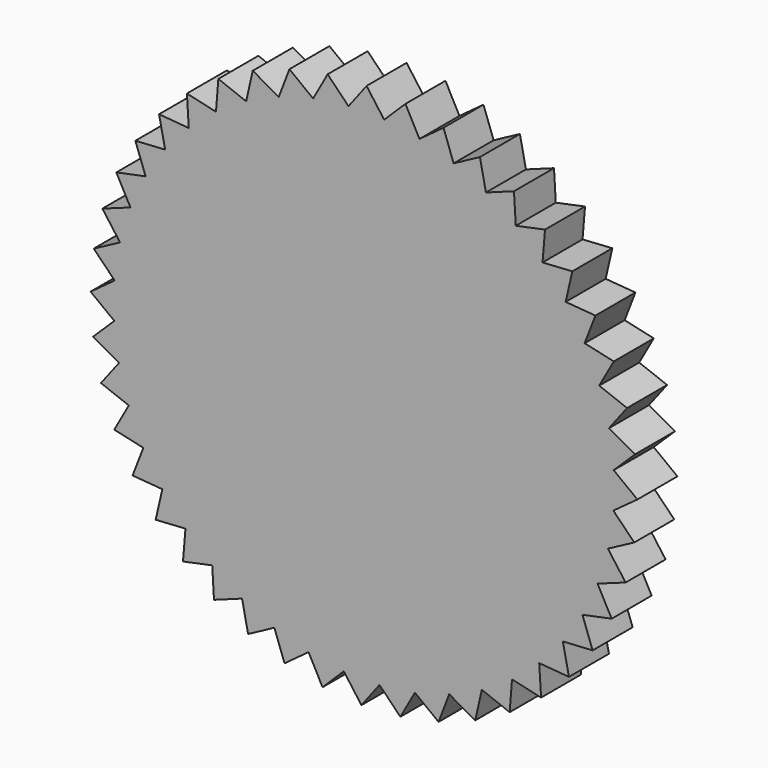
from build123d import *

# Parameters (mm, degrees)
F0_R     = 25.4
F1_DEPTH = 12.7
F2_DEPTH = 12.7
F3_DEPTH = 12.7


with BuildPart() as f1:
    # F0 (on Front) → F1 (new body)
    with BuildSketch(Plane.XZ):
        with BuildLine():
            Line((21.6409305502, -59.7314909213), (21.6052551354, -59.711497641))
            ThreePointArc((21.6052551354, -59.711497641), (17.3161577996, -61.0933767201), (12.9398582911, -62.1675966031))
            Line((12.9398582911, -62.1675966031), (12.9199796106, -62.2033360008))
            Line((12.9199796106, -62.2033360008), (18.9369886042, -66.8118523826))
            Line((18.9369886042, -66.8118523826), (21.6409305502, -59.7314909213))
        make_face()
        with BuildLine():
            ThreePointArc((63.2949514887, -5.0989328338), (63.4487171641, -2.5515270396), (63.5, 0))
            ThreePointArc((63.5, 0), (63.4699094208, 1.954635034), (63.3796662011, 3.9074175923))
            ThreePointArc((63.3796662011, 3.9074175923), (63.3780156902, 3.9340980122), (63.3763539479, 3.960777735))
            ThreePointArc((63.3763539479, 3.960777735), (62.9358804312, 8.4454102535), (62.1784690824, 12.8875126605))
            ThreePointArc((62.1784690824, 12.8875126605), (62.1730383517, 12.91368662), (62.1675966031, 12.9398582911))
            ThreePointArc((62.1675966031, 12.9398582911), (61.0933767201, 17.3161577996), (59.711497641, 21.6052551354))
            ThreePointArc((59.711497641, 21.6052551354), (59.7023972445, 21.6303898082), (59.693286268, 21.6555206478))
            ThreePointArc((59.693286268, 21.6555206478), (58.0071880377, 25.8343983085), (56.0289723015, 29.8831769201))
            ThreePointArc((56.0289723015, 29.8831769201), (56.016387497, 29.9067606368), (56.0037927657, 29.9303390535))
            ThreePointArc((56.0037927657, 29.9303390535), (53.7401402857, 33.8267249681), (51.2058586601, 37.5527633988))
            ThreePointArc((51.2058586601, 37.5527633988), (51.1900456379, 37.5743160628), (51.1742235442, 37.5958620681))
            ThreePointArc((51.1742235442, 37.5958620681), (48.3790982514, 41.1304370556), (45.3403414019, 44.4578839078))
            ThreePointArc((45.3403414019, 44.4578839078), (45.3216220696, 44.4769667691), (45.3028947057, 44.4960417485))
            ThreePointArc((45.3028947057, 44.4960417485), (42.0331972904, 47.596852055), (38.5518255434, 50.4579701065))
            ThreePointArc((38.5518255434, 50.4579701065), (38.5305809727, 50.474194693), (38.5093295738, 50.4904103348))
            ThreePointArc((38.5093295738, 50.4904103348), (34.8316216463, 53.0943324046), (30.9785056912, 55.4308775426))
            ThreePointArc((30.9785056912, 55.4308775426), (30.9551683602, 55.4439135685), (30.9318255434, 55.4569397691))
            ThreePointArc((30.9318255434, 55.4569397691), (26.9209746316, 57.5109652578), (22.7745527978, 59.2753721613))
            ThreePointArc((22.7745527978, 59.2753721613), (22.7495977872, 59.2849542508), (22.724638745, 59.2945258342))
            ThreePointArc((22.724638745, 59.2945258342), (18.4622942071, 60.7568407063), (14.1069756858, 61.9131911389))
            ThreePointArc((14.1069756858, 61.9131911389), (14.0809110077, 61.9191242283), (14.0548438343, 61.9250463447))
            ThreePointArc((14.0548438343, 61.9250463447), (9.6277747134, 62.7658820863), (5.15222123, 63.2906360878))
            ThreePointArc((5.15222123, 63.2906360878), (5.1255774861, 63.2927993964), (5.0989328338, 63.2949514887))
            ThreePointArc((5.0989328338, 63.2949514887), (0.5972614907, 63.4971911088), (-3.9074175923, 63.3796662011))
            ThreePointArc((-3.9074175923, 63.3796662011), (-3.9340980122, 63.3780156902), (-3.960777735, 63.3763539479))
            ThreePointArc((-3.960777735, 63.3763539479), (-8.4454102535, 62.9358804312), (-12.8875126605, 62.1784690824))
            ThreePointArc((-12.8875126605, 62.1784690824), (-12.91368662, 62.1730383517), (-12.9398582911, 62.1675966031))
            ThreePointArc((-12.9398582911, 62.1675966031), (-17.3161577996, 61.0933767201), (-21.6052551354, 59.711497641))
            ThreePointArc((-21.6052551354, 59.711497641), (-21.6303898082, 59.7023972445), (-21.6555206478, 59.693286268))
            ThreePointArc((-21.6555206478, 59.693286268), (-25.8343983085, 58.0071880377), (-29.8831769201, 56.0289723015))
            ThreePointArc((-29.8831769201, 56.0289723015), (-29.9067606368, 56.016387497), (-29.9303390535, 56.0037927657))
            ThreePointArc((-29.9303390535, 56.0037927657), (-33.8267249681, 53.7401402857), (-37.5527633988, 51.2058586601))
            ThreePointArc((-37.5527633988, 51.2058586601), (-37.5743160628, 51.1900456379), (-37.5958620681, 51.1742235442))
            ThreePointArc((-37.5958620681, 51.1742235442), (-41.1304370556, 48.3790982514), (-44.4578839078, 45.3403414019))
            ThreePointArc((-44.4578839078, 45.3403414019), (-44.4769667691, 45.3216220696), (-44.4960417485, 45.3028947057))
            ThreePointArc((-44.4960417485, 45.3028947057), (-47.596852055, 42.0331972904), (-50.4579701065, 38.5518255434))
            ThreePointArc((-50.4579701065, 38.5518255434), (-50.474194693, 38.5305809727), (-50.4904103348, 38.5093295738))
            ThreePointArc((-50.4904103348, 38.5093295738), (-53.0943324046, 34.8316216463), (-55.4308775426, 30.9785056912))
            ThreePointArc((-55.4308775426, 30.9785056912), (-55.4439135685, 30.9551683602), (-55.4569397691, 30.9318255434))
            ThreePointArc((-55.4569397691, 30.9318255434), (-57.5109652578, 26.9209746316), (-59.2753721613, 22.7745527978))
            ThreePointArc((-59.2753721613, 22.7745527978), (-59.2849542508, 22.7495977872), (-59.2945258342, 22.724638745))
            ThreePointArc((-59.2945258342, 22.724638745), (-60.7568407063, 18.4622942071), (-61.9131911389, 14.1069756858))
            ThreePointArc((-61.9131911389, 14.1069756858), (-61.9191242283, 14.0809110077), (-61.9250463447, 14.0548438343))
            ThreePointArc((-61.9250463447, 14.0548438343), (-62.7658820863, 9.6277747134), (-63.2906360878, 5.15222123))
            ThreePointArc((-63.2906360878, 5.15222123), (-63.2927993964, 5.1255774861), (-63.2949514887, 5.0989328338))
            ThreePointArc((-63.2949514887, 5.0989328338), (-63.4971911088, 0.5972614907), (-63.3796662011, -3.9074175923))
            ThreePointArc((-63.3796662011, -3.9074175923), (-63.3780156902, -3.9340980122), (-63.3763539479, -3.960777735))
            ThreePointArc((-63.3763539479, -3.960777735), (-62.9358804312, -8.4454102535), (-62.1784690824, -12.8875126605))
            ThreePointArc((-62.1784690824, -12.8875126605), (-62.1730383517, -12.91368662), (-62.1675966031, -12.9398582911))
            ThreePointArc((-62.1675966031, -12.9398582911), (-61.0933767201, -17.3161577996), (-59.711497641, -21.6052551354))
            ThreePointArc((-59.711497641, -21.6052551354), (-59.7023972445, -21.6303898082), (-59.693286268, -21.6555206478))
            ThreePointArc((-59.693286268, -21.6555206478), (-58.0071880377, -25.8343983085), (-56.0289723015, -29.8831769201))
            ThreePointArc((-56.0289723015, -29.8831769201), (-56.016387497, -29.9067606368), (-56.0037927657, -29.9303390535))
            ThreePointArc((-56.0037927657, -29.9303390535), (-53.7401402857, -33.8267249681), (-51.2058586601, -37.5527633988))
            ThreePointArc((-51.2058586601, -37.5527633988), (-51.1900456379, -37.5743160628), (-51.1742235442, -37.5958620681))
            ThreePointArc((-51.1742235442, -37.5958620681), (-48.3790982514, -41.1304370556), (-45.3403414019, -44.4578839078))
            ThreePointArc((-45.3403414019, -44.4578839078), (-45.3216220696, -44.4769667691), (-45.3028947057, -44.4960417485))
            ThreePointArc((-45.3028947057, -44.4960417485), (-42.0331972904, -47.596852055), (-38.5518255434, -50.4579701065))
            ThreePointArc((-38.5518255434, -50.4579701065), (-38.5305809727, -50.474194693), (-38.5093295738, -50.4904103348))
            ThreePointArc((-38.5093295738, -50.4904103348), (-34.8316216463, -53.0943324046), (-30.9785056912, -55.4308775426))
            ThreePointArc((-30.9785056912, -55.4308775426), (-30.9551683602, -55.4439135685), (-30.9318255434, -55.4569397691))
            ThreePointArc((-30.9318255434, -55.4569397691), (-26.9209746316, -57.5109652578), (-22.7745527978, -59.2753721613))
            ThreePointArc((-22.7745527978, -59.2753721613), (-22.7495977872, -59.2849542508), (-22.724638745, -59.2945258342))
            ThreePointArc((-22.724638745, -59.2945258342), (-18.4622942071, -60.7568407063), (-14.1069756858, -61.9131911389))
            ThreePointArc((-14.1069756858, -61.9131911389), (-14.0809110077, -61.9191242283), (-14.0548438343, -61.9250463447))
            ThreePointArc((-14.0548438343, -61.9250463447), (-9.6277747134, -62.7658820863), (-5.15222123, -63.2906360878))
            ThreePointArc((-5.15222123, -63.2906360878), (-5.1255774861, -63.2927993964), (-5.0989328338, -63.2949514887))
            ThreePointArc((-5.0989328338, -63.2949514887), (-0.5972614907, -63.4971911088), (3.9074175923, -63.3796662011))
            ThreePointArc((3.9074175923, -63.3796662011), (3.9340980122, -63.3780156902), (3.960777735, -63.3763539479))
            ThreePointArc((3.960777735, -63.3763539479), (8.4454102535, -62.9358804312), (12.8875126605, -62.1784690824))
            ThreePointArc((12.8875126605, -62.1784690824), (12.91368662, -62.1730383517), (12.9398582911, -62.1675966031))
            ThreePointArc((12.9398582911, -62.1675966031), (17.3161577996, -61.0933767201), (21.6052551354, -59.711497641))
            ThreePointArc((21.6052551354, -59.711497641), (21.6303898082, -59.7023972445), (21.6555206478, -59.693286268))
            ThreePointArc((21.6555206478, -59.693286268), (25.8343983085, -58.0071880377), (29.8831769201, -56.0289723015))
            ThreePointArc((29.8831769201, -56.0289723015), (29.9067606368, -56.016387497), (29.9303390535, -56.0037927657))
            ThreePointArc((29.9303390535, -56.0037927657), (33.8267249681, -53.7401402857), (37.5527633988, -51.2058586601))
            ThreePointArc((37.5527633988, -51.2058586601), (37.5743160628, -51.1900456379), (37.5958620681, -51.1742235442))
            ThreePointArc((37.5958620681, -51.1742235442), (41.1304370556, -48.3790982514), (44.4578839078, -45.3403414019))
            ThreePointArc((44.4578839078, -45.3403414019), (44.4769667691, -45.3216220696), (44.4960417485, -45.3028947057))
            ThreePointArc((44.4960417485, -45.3028947057), (47.596852055, -42.0331972904), (50.4579701065, -38.5518255434))
            ThreePointArc((50.4579701065, -38.5518255434), (50.474194693, -38.5305809727), (50.4904103348, -38.5093295738))
            ThreePointArc((50.4904103348, -38.5093295738), (53.0943324046, -34.8316216463), (55.4308775426, -30.9785056912))
            ThreePointArc((55.4308775426, -30.9785056912), (55.4439135685, -30.9551683602), (55.4569397691, -30.9318255434))
            ThreePointArc((55.4569397691, -30.9318255434), (57.5109652578, -26.9209746316), (59.2753721613, -22.7745527978))
            ThreePointArc((59.2753721613, -22.7745527978), (59.2849542508, -22.7495977872), (59.2945258342, -22.724638745))
            ThreePointArc((59.2945258342, -22.724638745), (60.7568407063, -18.4622942071), (61.9131911389, -14.1069756858))
            ThreePointArc((61.9131911389, -14.1069756858), (61.9191242283, -14.0809110077), (61.9250463447, -14.0548438343))
            ThreePointArc((61.9250463447, -14.0548438343), (62.7658820863, -9.6277747134), (63.2906360878, -5.15222123))
            ThreePointArc((63.2906360878, -5.15222123), (63.2927993964, -5.1255774861), (63.2949514887, -5.0989328338))
        make_face()
        Circle(F0_R, mode=Mode.SUBTRACT)
        with BuildLine():
            ThreePointArc((45.3403414019, 44.4578839078), (48.3790982514, 41.1304370556), (51.1742235442, 37.5958620681))
            Line((51.1742235442, 37.5958620681), (51.2149911461, 37.5926264666))
            Line((51.2149911461, 37.5926264666), (52.9074892289, 44.9803372562))
            Line((52.9074892289, 44.9803372562), (45.3437078263, 44.4986409154))
            Line((45.3437078263, 44.4986409154), (45.3403414019, 44.4578839078))
        make_face()
        with BuildLine():
            ThreePointArc((63.3796662011, 3.9074175923), (63.4699094208, 1.954635034), (63.5, 0))
            ThreePointArc((63.5, 0), (63.4487171641, -2.5515270396), (63.2949514887, -5.0989328338))
            Line((63.2949514887, -5.0989328338), (63.3236427181, -5.1280752399))
            Line((63.3236427181, -5.1280752399), (69.4406691336, -0.6531664919))
            Line((69.4406691336, -0.6531664919), (63.4089005388, 3.9360151442))
            Line((63.4089005388, 3.9360151442), (63.3796662011, 3.9074175923))
        make_face()
        with BuildLine():
            ThreePointArc((59.711497641, 21.6052551354), (61.0933767201, 17.3161577996), (62.1675966031, 12.9398582911))
            Line((62.1675966031, 12.9398582911), (62.2033360008, 12.9199796106))
            Line((62.2033360008, 12.9199796106), (66.8118523826, 18.9369886042))
            Line((66.8118523826, 18.9369886042), (59.7314909213, 21.6409305502))
            Line((59.7314909213, 21.6409305502), (59.711497641, 21.6052551354))
        make_face()
        with BuildLine():
            Line((-22.7606839324, -59.3138445027), (-22.7745527978, -59.2753721613))
            ThreePointArc((-22.7745527978, -59.2753721613), (-26.9209746316, -57.5109652578), (-30.9318255434, -55.4569397691))
            Line((-30.9318255434, -55.4569397691), (-30.9702531759, -55.4709320363))
            Line((-30.9702531759, -55.4709320363), (-29.4408376103, -62.894119256))
            Line((-29.4408376103, -62.894119256), (-22.7606839324, -59.3138445027))
        make_face()
        with BuildLine():
            Line((29.9213345512, -56.0436849381), (29.8831769201, -56.0289723015))
            ThreePointArc((29.8831769201, -56.0289723015), (25.8343983085, -58.0071880377), (21.6555206478, -59.693286268))
            Line((21.6555206478, -59.693286268), (21.6409305502, -59.7314909213))
            Line((21.6409305502, -59.7314909213), (28.2525553316, -63.4367895895))
            Line((28.2525553316, -63.4367895895), (29.9213345512, -56.0436849381))
        make_face()
        with BuildLine():
            Line((55.4709320363, -30.9702531759), (55.4308775426, -30.9785056912))
            ThreePointArc((55.4308775426, -30.9785056912), (53.0943324046, -34.8316216463), (50.4904103348, -38.5093295738))
            Line((50.4904103348, -38.5093295738), (50.4987913587, -38.5493573756))
            Line((50.4987913587, -38.5493573756), (58.0640797646, -38.0919387439))
            Line((58.0640797646, -38.0919387439), (55.4709320363, -30.9702531759))
        make_face()
        Circle(F0_R)
        with BuildLine():
            Line((61.949298142, -14.0877728004), (61.9131911389, -14.1069756858))
            ThreePointArc((61.9131911389, -14.1069756858), (60.7568407063, -18.4622942071), (59.2945258342, -22.724638745))
            Line((59.2945258342, -22.724638745), (59.3138445027, -22.7606839324))
            Line((59.3138445027, -22.7606839324), (66.4438158509, -20.1904059234))
            Line((66.4438158509, -20.1904059234), (61.949298142, -14.0877728004))
        make_face()
        with BuildLine():
            Line((63.3236427181, -5.1280752399), (63.2906360878, -5.15222123))
            ThreePointArc((63.2906360878, -5.15222123), (62.7658820863, -9.6277747134), (61.9250463447, -14.0548438343))
            Line((61.9250463447, -14.0548438343), (61.949298142, -14.0877728004))
            Line((61.949298142, -14.0877728004), (68.6409079633, -10.5289557962))
            Line((68.6409079633, -10.5289557962), (63.3236427181, -5.1280752399))
        make_face()
        with BuildLine():
            Line((-30.9702531759, -55.4709320363), (-30.9785056912, -55.4308775426))
            ThreePointArc((-30.9785056912, -55.4308775426), (-34.8316216463, -53.0943324046), (-38.5093295738, -50.4904103348))
            Line((-38.5093295738, -50.4904103348), (-38.5493573756, -50.4987913587))
            Line((-38.5493573756, -50.4987913587), (-38.0919387439, -58.0640797646))
            Line((-38.0919387439, -58.0640797646), (-30.9702531759, -55.4709320363))
        make_face()
        with BuildLine():
            Line((-14.0877728004, -61.949298142), (-14.1069756858, -61.9131911389))
            ThreePointArc((-14.1069756858, -61.9131911389), (-18.4622942071, -60.7568407063), (-22.724638745, -59.2945258342))
            Line((-22.724638745, -59.2945258342), (-22.7606839324, -59.3138445027))
            Line((-22.7606839324, -59.3138445027), (-20.1904059234, -66.4438158509))
            Line((-20.1904059234, -66.4438158509), (-14.0877728004, -61.949298142))
        make_face()
        with BuildLine():
            Line((50.4987913587, -38.5493573756), (50.4579701065, -38.5518255434))
            ThreePointArc((50.4579701065, -38.5518255434), (47.596852055, -42.0331972904), (44.4960417485, -45.3028947057))
            Line((44.4960417485, -45.3028947057), (44.4986409154, -45.3437078263))
            Line((44.4986409154, -45.3437078263), (52.0520230523, -45.9675978527))
            Line((52.0520230523, -45.9675978527), (50.4987913587, -38.5493573756))
        make_face()
        with BuildLine():
            ThreePointArc((51.2058586601, 37.5527633988), (53.7401402857, 33.8267249681), (56.0037927657, 29.9303390535))
            Line((56.0037927657, 29.9303390535), (56.0436849381, 29.9213345512))
            Line((56.0436849381, 29.9213345512), (58.7703366969, 36.9929815062))
            Line((58.7703366969, 36.9929815062), (51.2149911461, 37.5926264666))
            Line((51.2149911461, 37.5926264666), (51.2058586601, 37.5527633988))
        make_face()
        with BuildLine():
            ThreePointArc((62.1784690824, 12.8875126605), (62.9358804312, 8.4454102535), (63.3763539479, 3.960777735))
            Line((63.3763539479, 3.960777735), (63.4089005388, 3.9360151442))
            Line((63.4089005388, 3.9360151442), (68.8268185306, 9.2359193985))
            Line((68.8268185306, 9.2359193985), (62.2033360008, 12.9199796106))
            Line((62.2033360008, 12.9199796106), (62.1784690824, 12.8875126605))
        make_face()
        with BuildLine():
            Line((44.4986409154, -45.3437078263), (44.4578839078, -45.3403414019))
            ThreePointArc((44.4578839078, -45.3403414019), (41.1304370556, -48.3790982514), (37.5958620681, -51.1742235442))
            Line((37.5958620681, -51.1742235442), (37.5926264666, -51.2149911461))
            Line((37.5926264666, -51.2149911461), (44.9803372562, -52.9074892289))
            Line((44.9803372562, -52.9074892289), (44.4986409154, -45.3437078263))
        make_face()
        with BuildLine():
            Line((37.5926264666, -51.2149911461), (37.5527633988, -51.2058586601))
            ThreePointArc((37.5527633988, -51.2058586601), (33.8267249681, -53.7401402857), (29.9303390535, -56.0037927657))
            Line((29.9303390535, -56.0037927657), (29.9213345512, -56.0436849381))
            Line((29.9213345512, -56.0436849381), (36.9929815062, -58.7703366969))
            Line((36.9929815062, -58.7703366969), (37.5926264666, -51.2149911461))
        make_face()
        with BuildLine():
            Line((59.3138445027, -22.7606839324), (59.2753721613, -22.7745527978))
            ThreePointArc((59.2753721613, -22.7745527978), (57.5109652578, -26.9209746316), (55.4569397691, -30.9318255434))
            Line((55.4569397691, -30.9318255434), (55.4709320363, -30.9702531759))
            Line((55.4709320363, -30.9702531759), (62.894119256, -29.4408376103))
            Line((62.894119256, -29.4408376103), (59.3138445027, -22.7606839324))
        make_face()
        with BuildLine():
            ThreePointArc((56.0289723015, 29.8831769201), (58.0071880377, 25.8343983085), (59.693286268, 21.6555206478))
            Line((59.693286268, 21.6555206478), (59.7314909213, 21.6409305502))
            Line((59.7314909213, 21.6409305502), (63.4367895895, 28.2525553316))
            Line((63.4367895895, 28.2525553316), (56.0436849381, 29.9213345512))
            Line((56.0436849381, 29.9213345512), (56.0289723015, 29.8831769201))
        make_face()
        with BuildLine():
            Line((12.9199796106, -62.2033360008), (12.8875126605, -62.1784690824))
            ThreePointArc((12.8875126605, -62.1784690824), (8.4454102535, -62.9358804312), (3.960777735, -63.3763539479))
            Line((3.960777735, -63.3763539479), (3.9360151442, -63.4089005388))
            Line((3.9360151442, -63.4089005388), (9.2359193985, -68.8268185306))
            Line((9.2359193985, -68.8268185306), (12.9199796106, -62.2033360008))
        make_face()
        with BuildLine():
            Line((-5.1280752399, -63.3236427181), (-5.15222123, -63.2906360878))
            ThreePointArc((-5.15222123, -63.2906360878), (-9.6277747134, -62.7658820863), (-14.0548438343, -61.9250463447))
            Line((-14.0548438343, -61.9250463447), (-14.0877728004, -61.949298142))
            Line((-14.0877728004, -61.949298142), (-10.5289557962, -68.6409079633))
            Line((-10.5289557962, -68.6409079633), (-5.1280752399, -63.3236427181))
        make_face()
        with BuildLine():
            Line((63.3236427181, -5.1280752399), (63.2949514887, -5.0989328338))
            ThreePointArc((63.2949514887, -5.0989328338), (63.2927993964, -5.1255774861), (63.2906360878, -5.15222123))
            Line((63.2906360878, -5.15222123), (63.3236427181, -5.1280752399))
        make_face()
        with BuildLine():
            Line((61.949298142, -14.0877728004), (61.9250463447, -14.0548438343))
            ThreePointArc((61.9250463447, -14.0548438343), (61.9191242283, -14.0809110077), (61.9131911389, -14.1069756858))
            Line((61.9131911389, -14.1069756858), (61.949298142, -14.0877728004))
        make_face()
        with BuildLine():
            Line((29.9213345512, -56.0436849381), (29.9303390535, -56.0037927657))
            ThreePointArc((29.9303390535, -56.0037927657), (29.9067606368, -56.016387497), (29.8831769201, -56.0289723015))
            Line((29.8831769201, -56.0289723015), (29.9213345512, -56.0436849381))
        make_face()
        with BuildLine():
            Line((-22.7606839324, -59.3138445027), (-22.724638745, -59.2945258342))
            ThreePointArc((-22.724638745, -59.2945258342), (-22.7495977872, -59.2849542508), (-22.7745527978, -59.2753721613))
            Line((-22.7745527978, -59.2753721613), (-22.7606839324, -59.3138445027))
        make_face()
        with BuildLine():
            ThreePointArc((51.1742235442, 37.5958620681), (51.1900456379, 37.5743160628), (51.2058586601, 37.5527633988))
            Line((51.2058586601, 37.5527633988), (51.2149911461, 37.5926264666))
            Line((51.2149911461, 37.5926264666), (51.1742235442, 37.5958620681))
        make_face()
        with BuildLine():
            ThreePointArc((63.3763539479, 3.960777735), (63.3780156902, 3.9340980122), (63.3796662011, 3.9074175923))
            Line((63.3796662011, 3.9074175923), (63.4089005388, 3.9360151442))
            Line((63.4089005388, 3.9360151442), (63.3763539479, 3.960777735))
        make_face()
        with BuildLine():
            Line((59.3138445027, -22.7606839324), (59.2945258342, -22.724638745))
            ThreePointArc((59.2945258342, -22.724638745), (59.2849542508, -22.7495977872), (59.2753721613, -22.7745527978))
            Line((59.2753721613, -22.7745527978), (59.3138445027, -22.7606839324))
        make_face()
        with BuildLine():
            ThreePointArc((56.0037927657, 29.9303390535), (56.016387497, 29.9067606368), (56.0289723015, 29.8831769201))
            Line((56.0289723015, 29.8831769201), (56.0436849381, 29.9213345512))
            Line((56.0436849381, 29.9213345512), (56.0037927657, 29.9303390535))
        make_face()
        with BuildLine():
            Line((21.6409305502, -59.7314909213), (21.6555206478, -59.693286268))
            ThreePointArc((21.6555206478, -59.693286268), (21.6303898082, -59.7023972445), (21.6052551354, -59.711497641))
            Line((21.6052551354, -59.711497641), (21.6409305502, -59.7314909213))
        make_face()
        with BuildLine():
            Line((50.4987913587, -38.5493573756), (50.4904103348, -38.5093295738))
            ThreePointArc((50.4904103348, -38.5093295738), (50.474194693, -38.5305809727), (50.4579701065, -38.5518255434))
            Line((50.4579701065, -38.5518255434), (50.4987913587, -38.5493573756))
        make_face()
        with BuildLine():
            ThreePointArc((59.693286268, 21.6555206478), (59.7023972445, 21.6303898082), (59.711497641, 21.6052551354))
            Line((59.711497641, 21.6052551354), (59.7314909213, 21.6409305502))
            Line((59.7314909213, 21.6409305502), (59.693286268, 21.6555206478))
        make_face()
        with BuildLine():
            Line((55.4709320363, -30.9702531759), (55.4569397691, -30.9318255434))
            ThreePointArc((55.4569397691, -30.9318255434), (55.4439135685, -30.9551683602), (55.4308775426, -30.9785056912))
            Line((55.4308775426, -30.9785056912), (55.4709320363, -30.9702531759))
        make_face()
        with BuildLine():
            Line((44.4986409154, -45.3437078263), (44.4960417485, -45.3028947057))
            ThreePointArc((44.4960417485, -45.3028947057), (44.4769667691, -45.3216220696), (44.4578839078, -45.3403414019))
            Line((44.4578839078, -45.3403414019), (44.4986409154, -45.3437078263))
        make_face()
        with BuildLine():
            Line((37.5926264666, -51.2149911461), (37.5958620681, -51.1742235442))
            ThreePointArc((37.5958620681, -51.1742235442), (37.5743160628, -51.1900456379), (37.5527633988, -51.2058586601))
            Line((37.5527633988, -51.2058586601), (37.5926264666, -51.2149911461))
        make_face()
        with BuildLine():
            Line((-30.9702531759, -55.4709320363), (-30.9318255434, -55.4569397691))
            ThreePointArc((-30.9318255434, -55.4569397691), (-30.9551683602, -55.4439135685), (-30.9785056912, -55.4308775426))
            Line((-30.9785056912, -55.4308775426), (-30.9702531759, -55.4709320363))
        make_face()
        with BuildLine():
            ThreePointArc((62.1675966031, 12.9398582911), (62.1730383517, 12.91368662), (62.1784690824, 12.8875126605))
            Line((62.1784690824, 12.8875126605), (62.2033360008, 12.9199796106))
            Line((62.2033360008, 12.9199796106), (62.1675966031, 12.9398582911))
        make_face()
        with BuildLine():
            Line((-14.0877728004, -61.949298142), (-14.0548438343, -61.9250463447))
            ThreePointArc((-14.0548438343, -61.9250463447), (-14.0809110077, -61.9191242283), (-14.1069756858, -61.9131911389))
            Line((-14.1069756858, -61.9131911389), (-14.0877728004, -61.949298142))
        make_face()
        with BuildLine():
            Line((12.9199796106, -62.2033360008), (12.9398582911, -62.1675966031))
            ThreePointArc((12.9398582911, -62.1675966031), (12.91368662, -62.1730383517), (12.8875126605, -62.1784690824))
            Line((12.8875126605, -62.1784690824), (12.9199796106, -62.2033360008))
        make_face()
        with BuildLine():
            ThreePointArc((30.9785056912, 55.4308775426), (34.8316216463, 53.0943324046), (38.5093295738, 50.4904103348))
            Line((38.5093295738, 50.4904103348), (38.5493573756, 50.4987913587))
            Line((38.5493573756, 50.4987913587), (38.0919387439, 58.0640797646))
            Line((38.0919387439, 58.0640797646), (30.9702531759, 55.4709320363))
            Line((30.9702531759, 55.4709320363), (30.9785056912, 55.4308775426))
        make_face()
        with BuildLine():
            Line((-62.2033360008, -12.9199796106), (-62.1784690824, -12.8875126605))
            ThreePointArc((-62.1784690824, -12.8875126605), (-62.9358804312, -8.4454102535), (-63.3763539479, -3.960777735))
            Line((-63.3763539479, -3.960777735), (-63.4089005388, -3.9360151442))
            Line((-63.4089005388, -3.9360151442), (-68.8268185306, -9.2359193985))
            Line((-68.8268185306, -9.2359193985), (-62.2033360008, -12.9199796106))
        make_face()
        with BuildLine():
            ThreePointArc((-55.4308775426, 30.9785056912), (-53.0943324046, 34.8316216463), (-50.4904103348, 38.5093295738))
            Line((-50.4904103348, 38.5093295738), (-50.4987913587, 38.5493573756))
            Line((-50.4987913587, 38.5493573756), (-58.0640797646, 38.0919387439))
            Line((-58.0640797646, 38.0919387439), (-55.4709320363, 30.9702531759))
            Line((-55.4709320363, 30.9702531759), (-55.4308775426, 30.9785056912))
        make_face()
        with BuildLine():
            ThreePointArc((-29.8831769201, 56.0289723015), (-25.8343983085, 58.0071880377), (-21.6555206478, 59.693286268))
            Line((-21.6555206478, 59.693286268), (-21.6409305502, 59.7314909213))
            Line((-21.6409305502, 59.7314909213), (-28.2525553316, 63.4367895895))
            Line((-28.2525553316, 63.4367895895), (-29.9213345512, 56.0436849381))
            Line((-29.9213345512, 56.0436849381), (-29.8831769201, 56.0289723015))
        make_face()
        with BuildLine():
            Line((-51.2149911461, -37.5926264666), (-51.2058586601, -37.5527633988))
            ThreePointArc((-51.2058586601, -37.5527633988), (-53.7401402857, -33.8267249681), (-56.0037927657, -29.9303390535))
            Line((-56.0037927657, -29.9303390535), (-56.0436849381, -29.9213345512))
            Line((-56.0436849381, -29.9213345512), (-58.7703366969, -36.9929815062))
            Line((-58.7703366969, -36.9929815062), (-51.2149911461, -37.5926264666))
        make_face()
        with BuildLine():
            ThreePointArc((22.7745527978, 59.2753721613), (26.9209746316, 57.5109652578), (30.9318255434, 55.4569397691))
            Line((30.9318255434, 55.4569397691), (30.9702531759, 55.4709320363))
            Line((30.9702531759, 55.4709320363), (29.4408376103, 62.894119256))
            Line((29.4408376103, 62.894119256), (22.7606839324, 59.3138445027))
            Line((22.7606839324, 59.3138445027), (22.7745527978, 59.2753721613))
        make_face()
        with BuildLine():
            ThreePointArc((5.15222123, 63.2906360878), (9.6277747134, 62.7658820863), (14.0548438343, 61.9250463447))
            Line((14.0548438343, 61.9250463447), (14.0877728004, 61.949298142))
            Line((14.0877728004, 61.949298142), (10.5289557962, 68.6409079633))
            Line((10.5289557962, 68.6409079633), (5.1280752399, 63.3236427181))
            Line((5.1280752399, 63.3236427181), (5.15222123, 63.2906360878))
        make_face()
        with BuildLine():
            Line((-56.0436849381, -29.9213345512), (-56.0289723015, -29.8831769201))
            ThreePointArc((-56.0289723015, -29.8831769201), (-58.0071880377, -25.8343983085), (-59.693286268, -21.6555206478))
            Line((-59.693286268, -21.6555206478), (-59.7314909213, -21.6409305502))
            Line((-59.7314909213, -21.6409305502), (-63.4367895895, -28.2525553316))
            Line((-63.4367895895, -28.2525553316), (-56.0436849381, -29.9213345512))
        make_face()
        with BuildLine():
            ThreePointArc((-63.3796662011, -3.9074175923), (-63.4971911088, 0.5972614907), (-63.2949514887, 5.0989328338))
            Line((-63.2949514887, 5.0989328338), (-63.3236427181, 5.1280752399))
            Line((-63.3236427181, 5.1280752399), (-69.4406691336, 0.6531664919))
            Line((-69.4406691336, 0.6531664919), (-63.4089005388, -3.9360151442))
            Line((-63.4089005388, -3.9360151442), (-63.3796662011, -3.9074175923))
        make_face()
        with BuildLine():
            ThreePointArc((-37.5527633988, 51.2058586601), (-33.8267249681, 53.7401402857), (-29.9303390535, 56.0037927657))
            Line((-29.9303390535, 56.0037927657), (-29.9213345512, 56.0436849381))
            Line((-29.9213345512, 56.0436849381), (-36.9929815062, 58.7703366969))
            Line((-36.9929815062, 58.7703366969), (-37.5926264666, 51.2149911461))
            Line((-37.5926264666, 51.2149911461), (-37.5527633988, 51.2058586601))
        make_face()
        with BuildLine():
            ThreePointArc((-61.9131911389, 14.1069756858), (-60.7568407063, 18.4622942071), (-59.2945258342, 22.724638745))
            Line((-59.2945258342, 22.724638745), (-59.3138445027, 22.7606839324))
            Line((-59.3138445027, 22.7606839324), (-66.4438158509, 20.1904059234))
            Line((-66.4438158509, 20.1904059234), (-61.949298142, 14.0877728004))
            Line((-61.949298142, 14.0877728004), (-61.9131911389, 14.1069756858))
        make_face()
        with BuildLine():
            ThreePointArc((-12.8875126605, 62.1784690824), (-8.4454102535, 62.9358804312), (-3.960777735, 63.3763539479))
            Line((-3.960777735, 63.3763539479), (-3.9360151442, 63.4089005388))
            Line((-3.9360151442, 63.4089005388), (-9.2359193985, 68.8268185306))
            Line((-9.2359193985, 68.8268185306), (-12.9199796106, 62.2033360008))
            Line((-12.9199796106, 62.2033360008), (-12.8875126605, 62.1784690824))
        make_face()
        with BuildLine():
            Line((-38.5493573756, -50.4987913587), (-38.5518255434, -50.4579701065))
            ThreePointArc((-38.5518255434, -50.4579701065), (-42.0331972904, -47.596852055), (-45.3028947057, -44.4960417485))
            Line((-45.3028947057, -44.4960417485), (-45.3437078263, -44.4986409154))
            Line((-45.3437078263, -44.4986409154), (-45.9675978527, -52.0520230523))
            Line((-45.9675978527, -52.0520230523), (-38.5493573756, -50.4987913587))
        make_face()
        with BuildLine():
            ThreePointArc((-44.4578839078, 45.3403414019), (-41.1304370556, 48.3790982514), (-37.5958620681, 51.1742235442))
            Line((-37.5958620681, 51.1742235442), (-37.5926264666, 51.2149911461))
            Line((-37.5926264666, 51.2149911461), (-44.9803372562, 52.9074892289))
            Line((-44.9803372562, 52.9074892289), (-44.4986409154, 45.3437078263))
            Line((-44.4986409154, 45.3437078263), (-44.4578839078, 45.3403414019))
        make_face()
        with BuildLine():
            ThreePointArc((14.1069756858, 61.9131911389), (18.4622942071, 60.7568407063), (22.724638745, 59.2945258342))
            Line((22.724638745, 59.2945258342), (22.7606839324, 59.3138445027))
            Line((22.7606839324, 59.3138445027), (20.1904059234, 66.4438158509))
            Line((20.1904059234, 66.4438158509), (14.0877728004, 61.949298142))
            Line((14.0877728004, 61.949298142), (14.1069756858, 61.9131911389))
        make_face()
        with BuildLine():
            ThreePointArc((-21.6052551354, 59.711497641), (-17.3161577996, 61.0933767201), (-12.9398582911, 62.1675966031))
            Line((-12.9398582911, 62.1675966031), (-12.9199796106, 62.2033360008))
            Line((-12.9199796106, 62.2033360008), (-18.9369886042, 66.8118523826))
            Line((-18.9369886042, 66.8118523826), (-21.6409305502, 59.7314909213))
            Line((-21.6409305502, 59.7314909213), (-21.6052551354, 59.711497641))
        make_face()
        with BuildLine():
            ThreePointArc((-50.4579701065, 38.5518255434), (-47.596852055, 42.0331972904), (-44.4960417485, 45.3028947057))
            Line((-44.4960417485, 45.3028947057), (-44.4986409154, 45.3437078263))
            Line((-44.4986409154, 45.3437078263), (-52.0520230523, 45.9675978527))
            Line((-52.0520230523, 45.9675978527), (-50.4987913587, 38.5493573756))
            Line((-50.4987913587, 38.5493573756), (-50.4579701065, 38.5518255434))
        make_face()
        with BuildLine():
            ThreePointArc((-63.2906360878, 5.15222123), (-62.7658820863, 9.6277747134), (-61.9250463447, 14.0548438343))
            Line((-61.9250463447, 14.0548438343), (-61.949298142, 14.0877728004))
            Line((-61.949298142, 14.0877728004), (-68.6409079633, 10.5289557962))
            Line((-68.6409079633, 10.5289557962), (-63.3236427181, 5.1280752399))
            Line((-63.3236427181, 5.1280752399), (-63.2906360878, 5.15222123))
        make_face()
        with BuildLine():
            ThreePointArc((-3.9074175923, 63.3796662011), (0.5972614907, 63.4971911088), (5.0989328338, 63.2949514887))
            Line((5.0989328338, 63.2949514887), (5.1280752399, 63.3236427181))
            Line((5.1280752399, 63.3236427181), (0.6531664919, 69.4406691336))
            Line((0.6531664919, 69.4406691336), (-3.9360151442, 63.4089005388))
            Line((-3.9360151442, 63.4089005388), (-3.9074175923, 63.3796662011))
        make_face()
        with BuildLine():
            ThreePointArc((38.5518255434, 50.4579701065), (42.0331972904, 47.596852055), (45.3028947057, 44.4960417485))
            Line((45.3028947057, 44.4960417485), (45.3437078263, 44.4986409154))
            Line((45.3437078263, 44.4986409154), (45.9675978527, 52.0520230523))
            Line((45.9675978527, 52.0520230523), (38.5493573756, 50.4987913587))
            Line((38.5493573756, 50.4987913587), (38.5518255434, 50.4579701065))
        make_face()
        with BuildLine():
            ThreePointArc((-59.2753721613, 22.7745527978), (-57.5109652578, 26.9209746316), (-55.4569397691, 30.9318255434))
            Line((-55.4569397691, 30.9318255434), (-55.4709320363, 30.9702531759))
            Line((-55.4709320363, 30.9702531759), (-62.894119256, 29.4408376103))
            Line((-62.894119256, 29.4408376103), (-59.3138445027, 22.7606839324))
            Line((-59.3138445027, 22.7606839324), (-59.2753721613, 22.7745527978))
        make_face()
        with BuildLine():
            Line((3.9360151442, -63.4089005388), (3.9074175923, -63.3796662011))
            ThreePointArc((3.9074175923, -63.3796662011), (-0.5972614907, -63.4971911088), (-5.0989328338, -63.2949514887))
            Line((-5.0989328338, -63.2949514887), (-5.1280752399, -63.3236427181))
            Line((-5.1280752399, -63.3236427181), (-0.6531664919, -69.4406691336))
            Line((-0.6531664919, -69.4406691336), (3.9360151442, -63.4089005388))
        make_face()
        with BuildLine():
            Line((-59.7314909213, -21.6409305502), (-59.711497641, -21.6052551354))
            ThreePointArc((-59.711497641, -21.6052551354), (-61.0933767201, -17.3161577996), (-62.1675966031, -12.9398582911))
            Line((-62.1675966031, -12.9398582911), (-62.2033360008, -12.9199796106))
            Line((-62.2033360008, -12.9199796106), (-66.8118523826, -18.9369886042))
            Line((-66.8118523826, -18.9369886042), (-59.7314909213, -21.6409305502))
        make_face()
        with BuildLine():
            Line((-45.3437078263, -44.4986409154), (-45.3403414019, -44.4578839078))
            ThreePointArc((-45.3403414019, -44.4578839078), (-48.3790982514, -41.1304370556), (-51.1742235442, -37.5958620681))
            Line((-51.1742235442, -37.5958620681), (-51.2149911461, -37.5926264666))
            Line((-51.2149911461, -37.5926264666), (-52.9074892289, -44.9803372562))
            Line((-52.9074892289, -44.9803372562), (-45.3437078263, -44.4986409154))
        make_face()
        with BuildLine():
            ThreePointArc((-12.9398582911, 62.1675966031), (-12.91368662, 62.1730383517), (-12.8875126605, 62.1784690824))
            Line((-12.8875126605, 62.1784690824), (-12.9199796106, 62.2033360008))
            Line((-12.9199796106, 62.2033360008), (-12.9398582911, 62.1675966031))
        make_face()
        with BuildLine():
            Line((-38.5493573756, -50.4987913587), (-38.5093295738, -50.4904103348))
            ThreePointArc((-38.5093295738, -50.4904103348), (-38.5305809727, -50.474194693), (-38.5518255434, -50.4579701065))
            Line((-38.5518255434, -50.4579701065), (-38.5493573756, -50.4987913587))
        make_face()
        with BuildLine():
            Line((-62.2033360008, -12.9199796106), (-62.1675966031, -12.9398582911))
            ThreePointArc((-62.1675966031, -12.9398582911), (-62.1730383517, -12.91368662), (-62.1784690824, -12.8875126605))
            Line((-62.1784690824, -12.8875126605), (-62.2033360008, -12.9199796106))
        make_face()
        with BuildLine():
            ThreePointArc((5.0989328338, 63.2949514887), (5.1255774861, 63.2927993964), (5.15222123, 63.2906360878))
            Line((5.15222123, 63.2906360878), (5.1280752399, 63.3236427181))
            Line((5.1280752399, 63.3236427181), (5.0989328338, 63.2949514887))
        make_face()
        with BuildLine():
            ThreePointArc((30.9318255434, 55.4569397691), (30.9551683602, 55.4439135685), (30.9785056912, 55.4308775426))
            Line((30.9785056912, 55.4308775426), (30.9702531759, 55.4709320363))
            Line((30.9702531759, 55.4709320363), (30.9318255434, 55.4569397691))
        make_face()
        with BuildLine():
            ThreePointArc((-44.4960417485, 45.3028947057), (-44.4769667691, 45.3216220696), (-44.4578839078, 45.3403414019))
            Line((-44.4578839078, 45.3403414019), (-44.4986409154, 45.3437078263))
            Line((-44.4986409154, 45.3437078263), (-44.4960417485, 45.3028947057))
        make_face()
        with BuildLine():
            ThreePointArc((-59.2945258342, 22.724638745), (-59.2849542508, 22.7495977872), (-59.2753721613, 22.7745527978))
            Line((-59.2753721613, 22.7745527978), (-59.3138445027, 22.7606839324))
            Line((-59.3138445027, 22.7606839324), (-59.2945258342, 22.724638745))
        make_face()
        with BuildLine():
            Line((-45.3437078263, -44.4986409154), (-45.3028947057, -44.4960417485))
            ThreePointArc((-45.3028947057, -44.4960417485), (-45.3216220696, -44.4769667691), (-45.3403414019, -44.4578839078))
            Line((-45.3403414019, -44.4578839078), (-45.3437078263, -44.4986409154))
        make_face()
        with BuildLine():
            ThreePointArc((-61.9250463447, 14.0548438343), (-61.9191242283, 14.0809110077), (-61.9131911389, 14.1069756858))
            Line((-61.9131911389, 14.1069756858), (-61.949298142, 14.0877728004))
            Line((-61.949298142, 14.0877728004), (-61.9250463447, 14.0548438343))
        make_face()
        with BuildLine():
            Line((-56.0436849381, -29.9213345512), (-56.0037927657, -29.9303390535))
            ThreePointArc((-56.0037927657, -29.9303390535), (-56.016387497, -29.9067606368), (-56.0289723015, -29.8831769201))
            Line((-56.0289723015, -29.8831769201), (-56.0436849381, -29.9213345512))
        make_face()
        with BuildLine():
            ThreePointArc((-63.2949514887, 5.0989328338), (-63.2927993964, 5.1255774861), (-63.2906360878, 5.15222123))
            Line((-63.2906360878, 5.15222123), (-63.3236427181, 5.1280752399))
            Line((-63.3236427181, 5.1280752399), (-63.2949514887, 5.0989328338))
        make_face()
        with BuildLine():
            Line((-5.1280752399, -63.3236427181), (-5.0989328338, -63.2949514887))
            ThreePointArc((-5.0989328338, -63.2949514887), (-5.1255774861, -63.2927993964), (-5.15222123, -63.2906360878))
            Line((-5.15222123, -63.2906360878), (-5.1280752399, -63.3236427181))
        make_face()
        with BuildLine():
            ThreePointArc((14.0548438343, 61.9250463447), (14.0809110077, 61.9191242283), (14.1069756858, 61.9131911389))
            Line((14.1069756858, 61.9131911389), (14.0877728004, 61.949298142))
            Line((14.0877728004, 61.949298142), (14.0548438343, 61.9250463447))
        make_face()
        with BuildLine():
            Line((-59.7314909213, -21.6409305502), (-59.693286268, -21.6555206478))
            ThreePointArc((-59.693286268, -21.6555206478), (-59.7023972445, -21.6303898082), (-59.711497641, -21.6052551354))
            Line((-59.711497641, -21.6052551354), (-59.7314909213, -21.6409305502))
        make_face()
        with BuildLine():
            ThreePointArc((-37.5958620681, 51.1742235442), (-37.5743160628, 51.1900456379), (-37.5527633988, 51.2058586601))
            Line((-37.5527633988, 51.2058586601), (-37.5926264666, 51.2149911461))
            Line((-37.5926264666, 51.2149911461), (-37.5958620681, 51.1742235442))
        make_face()
        with BuildLine():
            ThreePointArc((38.5093295738, 50.4904103348), (38.5305809727, 50.474194693), (38.5518255434, 50.4579701065))
            Line((38.5518255434, 50.4579701065), (38.5493573756, 50.4987913587))
            Line((38.5493573756, 50.4987913587), (38.5093295738, 50.4904103348))
        make_face()
        with BuildLine():
            ThreePointArc((-3.960777735, 63.3763539479), (-3.9340980122, 63.3780156902), (-3.9074175923, 63.3796662011))
            Line((-3.9074175923, 63.3796662011), (-3.9360151442, 63.4089005388))
            Line((-3.9360151442, 63.4089005388), (-3.960777735, 63.3763539479))
        make_face()
        with BuildLine():
            ThreePointArc((-29.9303390535, 56.0037927657), (-29.9067606368, 56.016387497), (-29.8831769201, 56.0289723015))
            Line((-29.8831769201, 56.0289723015), (-29.9213345512, 56.0436849381))
            Line((-29.9213345512, 56.0436849381), (-29.9303390535, 56.0037927657))
        make_face()
        with BuildLine():
            ThreePointArc((-50.4904103348, 38.5093295738), (-50.474194693, 38.5305809727), (-50.4579701065, 38.5518255434))
            Line((-50.4579701065, 38.5518255434), (-50.4987913587, 38.5493573756))
            Line((-50.4987913587, 38.5493573756), (-50.4904103348, 38.5093295738))
        make_face()
        with BuildLine():
            ThreePointArc((-21.6555206478, 59.693286268), (-21.6303898082, 59.7023972445), (-21.6052551354, 59.711497641))
            Line((-21.6052551354, 59.711497641), (-21.6409305502, 59.7314909213))
            Line((-21.6409305502, 59.7314909213), (-21.6555206478, 59.693286268))
        make_face()
        with BuildLine():
            Line((-51.2149911461, -37.5926264666), (-51.1742235442, -37.5958620681))
            ThreePointArc((-51.1742235442, -37.5958620681), (-51.1900456379, -37.5743160628), (-51.2058586601, -37.5527633988))
            Line((-51.2058586601, -37.5527633988), (-51.2149911461, -37.5926264666))
        make_face()
        with BuildLine():
            ThreePointArc((22.724638745, 59.2945258342), (22.7495977872, 59.2849542508), (22.7745527978, 59.2753721613))
            Line((22.7745527978, 59.2753721613), (22.7606839324, 59.3138445027))
            Line((22.7606839324, 59.3138445027), (22.724638745, 59.2945258342))
        make_face()
        with BuildLine():
            ThreePointArc((-55.4569397691, 30.9318255434), (-55.4439135685, 30.9551683602), (-55.4308775426, 30.9785056912))
            Line((-55.4308775426, 30.9785056912), (-55.4709320363, 30.9702531759))
            Line((-55.4709320363, 30.9702531759), (-55.4569397691, 30.9318255434))
        make_face()
        with BuildLine():
            Line((-63.4089005388, -3.9360151442), (-63.3763539479, -3.960777735))
            ThreePointArc((-63.3763539479, -3.960777735), (-63.3780156902, -3.9340980122), (-63.3796662011, -3.9074175923))
            Line((-63.3796662011, -3.9074175923), (-63.4089005388, -3.9360151442))
        make_face()
        with BuildLine():
            Line((3.9360151442, -63.4089005388), (3.960777735, -63.3763539479))
            ThreePointArc((3.960777735, -63.3763539479), (3.9340980122, -63.3780156902), (3.9074175923, -63.3796662011))
            Line((3.9074175923, -63.3796662011), (3.9360151442, -63.4089005388))
        make_face()
        with BuildLine():
            ThreePointArc((45.3028947057, 44.4960417485), (45.3216220696, 44.4769667691), (45.3403414019, 44.4578839078))
            Line((45.3403414019, 44.4578839078), (45.3437078263, 44.4986409154))
            Line((45.3437078263, 44.4986409154), (45.3028947057, 44.4960417485))
        make_face()
    extrude(amount=F1_DEPTH)

    # F0 (on Front) → F2 (join)
    with BuildSketch(Plane.XZ):
        Circle(F0_R)
    extrude(amount=F2_DEPTH)

    # F0 (on Front) → F3 (join)
    with BuildSketch(Plane.XZ):
        Circle(F0_R)
    extrude(amount=F3_DEPTH)


solid = f1.part
